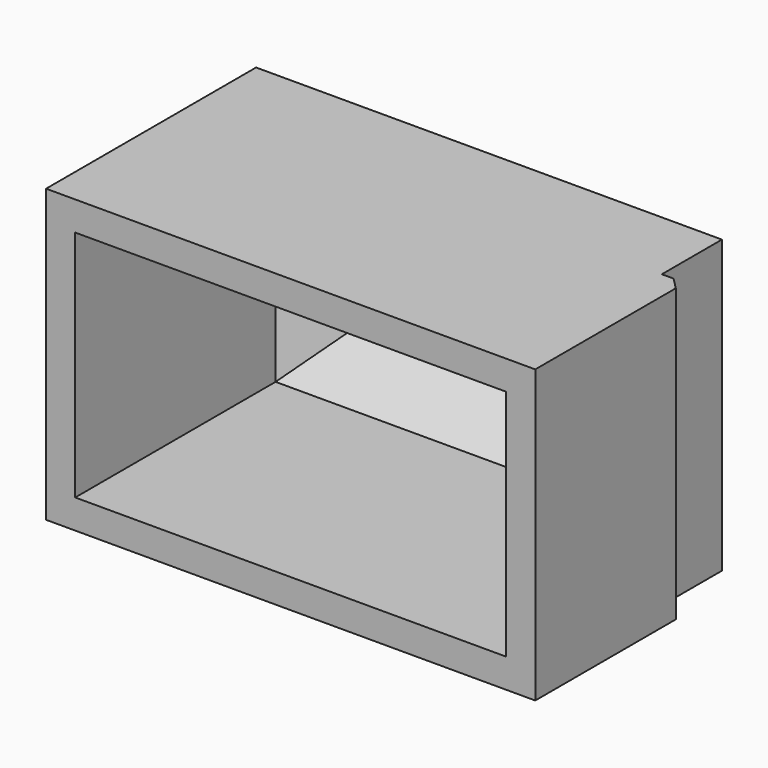
from build123d import *

# Parameters (mm, degrees)
F0_W     = 2
F0_H     = 16.0696078092
F1_DEPTH = 25
F2_SIZE  = 5
F3_SIZE  = 1
F4_T     = -2.5


with BuildPart() as f1:
    # F0 (on Top) → F1 (new body)
    with BuildSketch(Plane.XY):
        with Locations((1, 8.0348039046)):
            Rectangle(F0_W, F0_H)
        Polygon((-17.9578904063, 0), (0, 0), (0, 16.0696078092), (0, 27.5092944503), (-39.9500094354, 27.5092944503), (-39.9500094354, 0), align=None)
    extrude(amount=F1_DEPTH)

    # F2
    f2_edges = [f1.edges().sort_by_distance(p)[0] for p in [
        (0, 27.509294, 12.5),
        (-39.950009, 27.509294, 12.5),
        (-19.975005, 27.509294, 0),
        (-19.975005, 27.509294, 25),
    ]]
    chamfer(f2_edges, length=F2_SIZE)

    # F3
    f3_edges = [f1.edges().sort_by_distance(p)[0] for p in [
        (2, 16.069608, 12.5),
    ]]
    chamfer(f3_edges, length=F3_SIZE)

    # F4
    f4_openings = [f1.faces().sort_by_distance(p)[0] for p in [
        (-18.975005, 0, 12.5),
    ]]
    offset(amount=F4_T, openings=f4_openings, kind=Kind.INTERSECTION)


solid = f1.part
